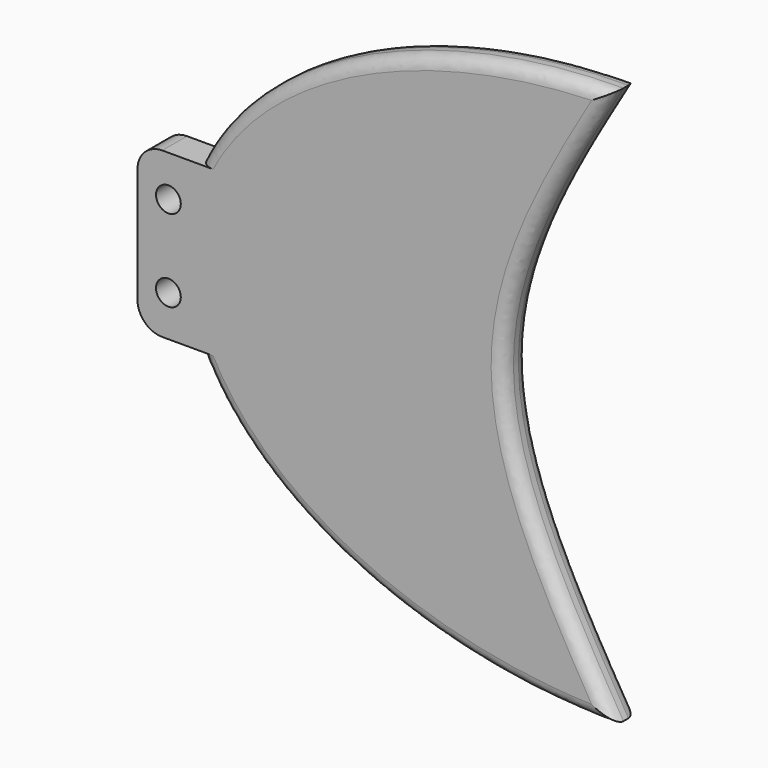
from build123d import *

# Parameters (mm, degrees)
F0_R     = 2.54
F1_DEPTH = 6.35
F2_R     = 2.54
F3_R     = 5.08


with BuildPart() as f1:
    # F0 (on Front) → F1 (new body)
    with BuildSketch(Plane.XZ):
        with BuildLine():
            add(Edge.make_bspline(
                [(0, 57.15), (-11.28771808, 38.1), (-33.86315424, 0), (-11.28771808, -38.1), (0, -57.15)],
                knots=[0, 0, 0, 0, 0.5, 1, 1, 1, 1], degree=3))
            add(Edge.make_bspline(
                [(0, 57.15), (-65.6185976721, 57.15), (-84.9532504269, 16.8393632924)],
                knots=[1.5707963268, 1.5707963268, 1.5707963268, 2.8425012954, 2.8425012954, 2.8425012954], degree=2, weights=[1, 0.8045657295, 1]))
            Line((-84.9532504269, 16.8393632924), (-97.6532504269, 16.8393632924))
            Line((-97.6532504269, 16.8393632924), (-97.6532504269, 0))
            Line((-97.6532504269, 0), (-97.6532504269, -16.8393632924))
            Line((-97.6532504269, -16.8393632924), (-84.9532504269, -16.8393632924))
            add(Edge.make_bspline(
                [(-84.9532504269, -16.8393632924), (-65.6185976721, -57.15), (0, -57.15)],
                knots=[3.4406840118, 3.4406840118, 3.4406840118, 4.7123889804, 4.7123889804, 4.7123889804], degree=2, weights=[1, 0.8045657295, 1]))
        make_face()
        with Locations((-91.3032504269, -8.4196816462)):
            Circle(F0_R, mode=Mode.SUBTRACT)
        with Locations((-91.3032504269, 8.4196816462)):
            Circle(F0_R, mode=Mode.SUBTRACT)
    extrude(amount=F1_DEPTH)

    # F2
    f2_edges = [f1.edges().sort_by_distance(p)[0] for p in [
        (-48.148799, -6.35, 48.042135),
        (-48.148799, 0, 48.042135),
        (-48.148793, -6.35, -48.042137),
        (-48.148793, 0, -48.042137),
        (-22.575436, -6.35, 0),
        (-22.575436, 0, 0),
    ]]
    fillet(f2_edges, radius=F2_R)

    # F3
    f3_edges = [f1.edges().sort_by_distance(p)[0] for p in [
        (-97.65325, -3.175, 16.839363),
        (-97.65325, -3.175, -16.839363),
    ]]
    fillet(f3_edges, radius=F3_R)


solid = f1.part
